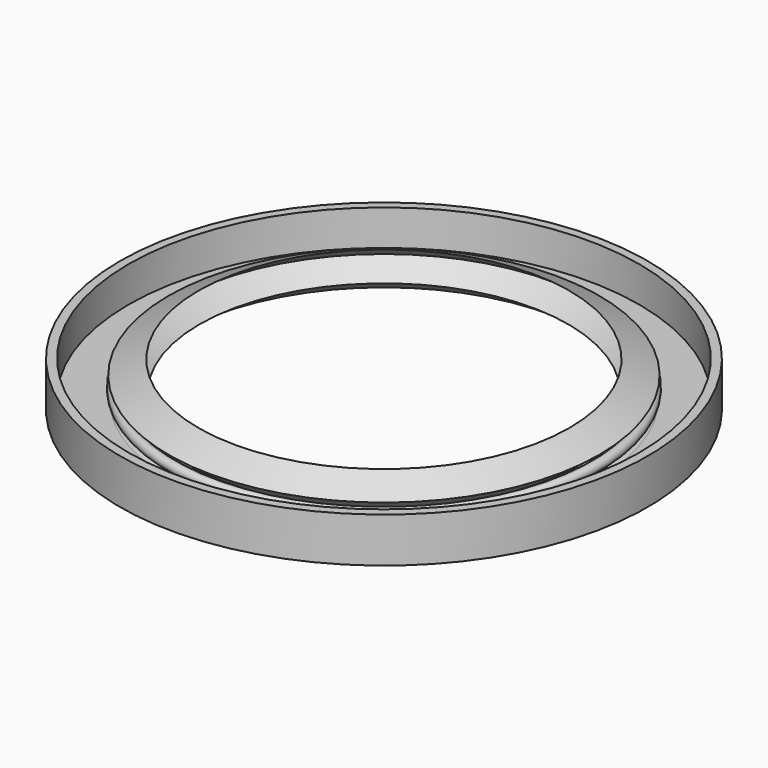
from build123d import *

# Parameters (mm, degrees)
F0_R = 1.264042


with BuildPart() as f1:
    # F0 (on Front) → F1 (revolve)
    with BuildSketch(Plane.XZ):
        Polygon((-65.692723, 11.592387), (-67.916192, 11.56214), (-67.916192, 0), (-53.167634, 0), (-47.436673, 3.900215), (-53.487708, 7.388874), (-47.755232, 11.379424), (-55.402715, 7.769435), (-50.663935, 4.065192), (-55.215961, 2.426463), (-65.692723, 2.426463), align=None)
        with Locations((-54.412611, 4.870228)):
            Circle(F0_R)
    revolve(axis=Axis((0, 0, 11.062643), (0, 0, -1)))


solid = f1.part
